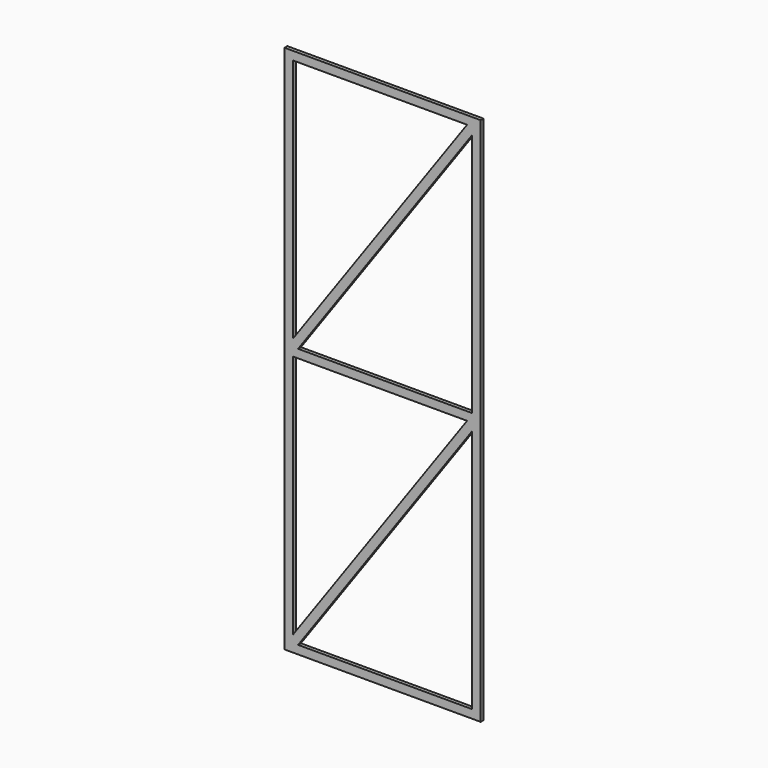
from build123d import *

# Parameters (mm, degrees)
F0_W     = 1000
F0_H     = 2700
F1_DEPTH = 18


with BuildPart() as f1:
    # F0 (on Front) → F1 (new body)
    with BuildSketch(Plane.XZ):
        Rectangle(F0_W, F0_H)
        Polygon((-457, 58.6030207938), (-457, 1307), (430.6194780198, 1307), (457, 1307), (457, 1269.8969792062), (457, 21.5), (457, -21.5), (457, -58.6030207938), (457, -1307), (-430.6194780198, -1307), (-457, -1307), (-457, -1269.8969792062), (-457, -21.5), (-457, 21.5), align=None, mode=Mode.SUBTRACT)
        Polygon((430.6194780198, -21.5), (-457, -1269.8969792062), (-457, -1307), (-430.6194780198, -1307), (457, -58.6030207938), (457, -21.5), align=None)
        Polygon((-430.6194780198, 21.5), (-457, 21.5), (-457, -21.5), (430.6194780198, -21.5), (457, -21.5), (457, 21.5), align=None)
        Polygon((457, 1307), (430.6194780198, 1307), (-457, 58.6030207938), (-457, 21.5), (-430.6194780198, 21.5), (457, 1269.8969792062), align=None)
    extrude(amount=F1_DEPTH)


solid = f1.part
